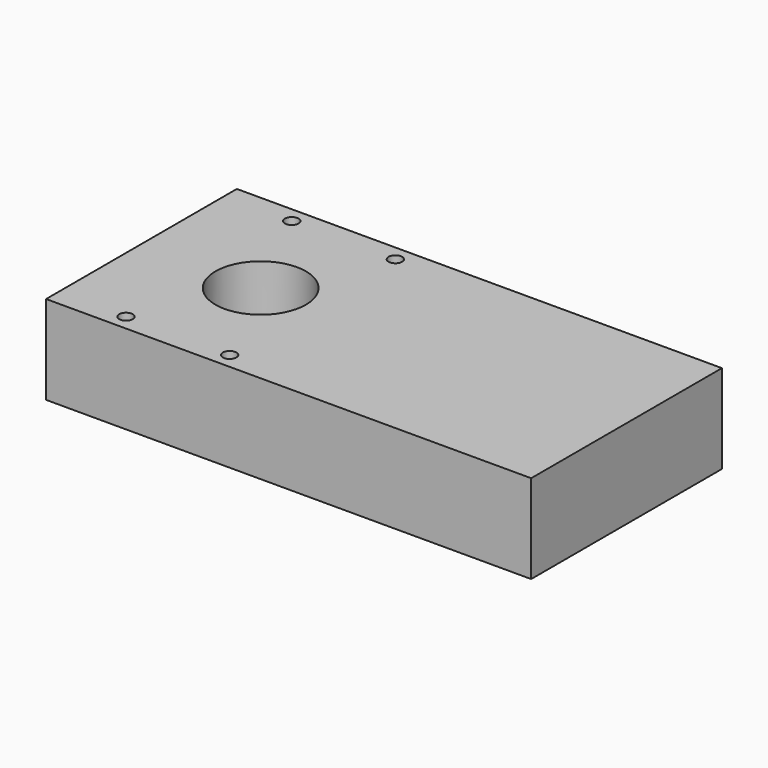
from build123d import *

# Parameters (mm, degrees)
F0_W     = 118
F0_H     = 58
F0_R     = 1.65
F0_R_2   = 11
F1_DEPTH = 21.6
F2_D     = 3
F2_DEPTH = 5
F2_TIP   = 0.9012909285


with BuildPart() as f1:
    # F0 (on Top) → F1 (new body)
    with BuildSketch(Plane.XY):
        with Locations((4.9529026613, -7.0896845311)):
            Rectangle(F0_W, F0_H)
        with Locations((-37.6470973387, -32.2896845311)):
            Circle(F0_R, mode=Mode.SUBTRACT)
        with Locations((-12.4470973387, -32.2896845311)):
            Circle(F0_R, mode=Mode.SUBTRACT)
        with Locations((-25.0470973387, -7.0896845311)):
            Circle(F0_R_2, mode=Mode.SUBTRACT)
        with Locations((-37.6470973387, 18.1103154689)):
            Circle(F0_R, mode=Mode.SUBTRACT)
        with Locations((-12.4470973387, 18.1103154689)):
            Circle(F0_R, mode=Mode.SUBTRACT)
    extrude(amount=F1_DEPTH)

    # F2
    with Locations(Plane(origin=(0, 0, 0), x_dir=(1, 0, 0), z_dir=(0, 0, -1))):
        with Locations((-37.5470973387, 19.5896845311), (-12.5470973387, 19.5896845311), (-12.5470973387, -5.4103154689), (-37.5470973387, -5.4103154689)):
            Hole(F2_D / 2, depth=F2_DEPTH)
            with Locations((0, 0, -(F2_DEPTH + F2_TIP / 2))):  # 118° drill point
                Cone(0, F2_D / 2, F2_TIP, mode=Mode.SUBTRACT)


solid = f1.part
